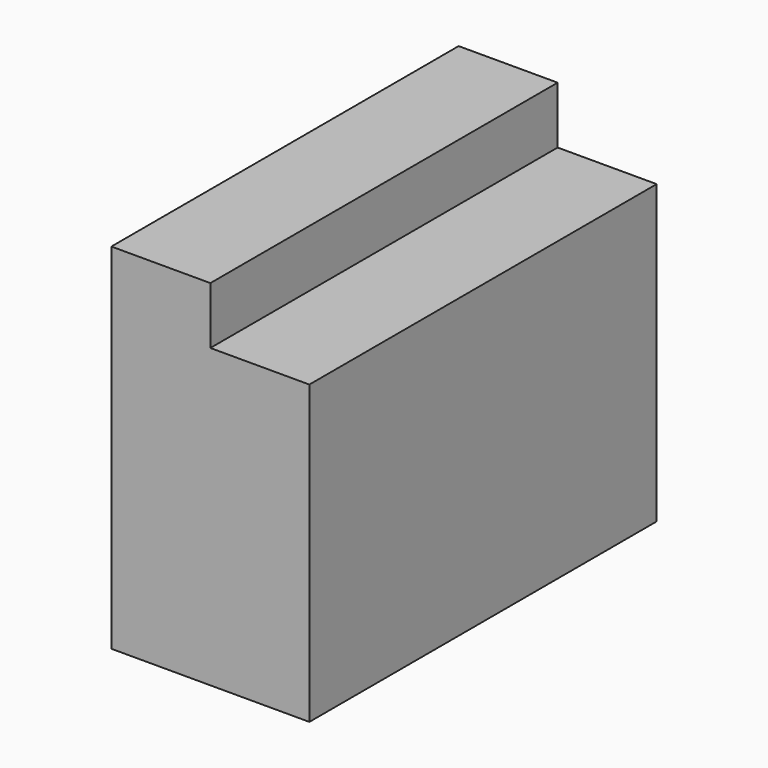
from build123d import *

# Parameters (mm, degrees)
F0_W     = 1447.8
F0_H     = 1181.1
F1_DEPTH = 330.2
F2_W     = 1447.8
F2_H     = 990.6
F3_DEPTH = 330.2


with BuildPart() as f1:
    # F0 (on Right) → F1 (new body)
    with BuildSketch(Plane.YZ):
        Rectangle(F0_W, F0_H)
    extrude(amount=F1_DEPTH)

    # F2 (on face) → F3 (join)
    with BuildSketch(Plane.YZ.offset(330.2)):
        with Locations((0, -95.25)):
            Rectangle(F2_W, F2_H)
    extrude(amount=F3_DEPTH)


solid = f1.part
